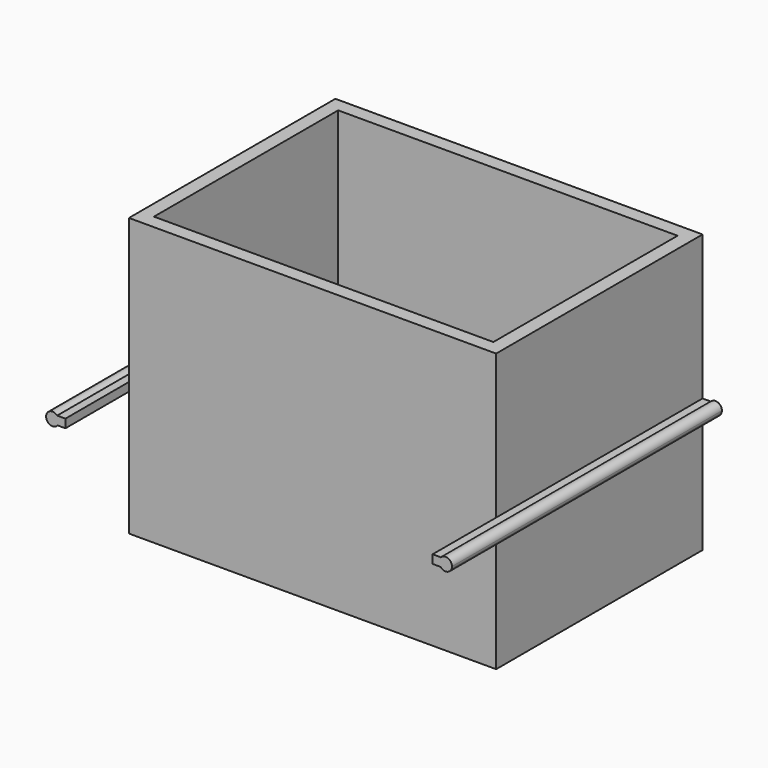
from build123d import *

# Parameters (mm, degrees)
F0_W     = 46.99
F0_H     = 33.02
F1_DEPTH = 71.12
F3_DEPTH = 86.36
F5_W     = 86.868
F5_H     = 58.928
F6_DEPTH = 65.532


with BuildPart() as f1:
    # F0 (on Top) → F1 (new body)
    with BuildSketch(Plane.XY):
        with Locations((-23.495, -16.51)):
            Rectangle(F0_W, F0_H)
        Polygon((0, 0), (0, -33.02), (46.99, -33.02), (46.99, 33.02), (-46.99, 33.02), (-46.99, 0), align=None)
        Polygon((0, 0), (0, -33.02), (46.99, -33.02), (46.99, 33.02), (-46.99, 33.02), (-46.99, 0), align=None)
    extrude(amount=F1_DEPTH)

    # F2 (on face) → F3 (join)
    with BuildSketch(Plane(origin=(0, 33.02, 0), x_dir=(-1, 0, 0), z_dir=(0, 1, 0))):
        with BuildLine():
            ThreePointArc((49.0112789095, 31.9781005383), (48.6423795188, 33.0874779076), (49.1006532674, 34.1630196685))
            Line((49.1006532674, 34.1630196685), (46.99, 34.1630196685))
            Line((46.99, 34.1630196685), (46.99, 31.9781005383))
            Line((46.99, 31.9781005383), (49.0112789095, 31.9781005383))
        make_face()
        with BuildLine():
            Line((49.1006532674, 31.9781005383), (49.1006532674, 34.1630196685))
            ThreePointArc((49.1006532674, 34.1630196685), (48.6423795188, 33.0874779076), (49.0112789095, 31.9781005383))
            Line((49.0112789095, 31.9781005383), (49.1006532674, 31.9781005383))
        make_face()
        with BuildLine():
            ThreePointArc((49.0112789095, 31.9781005383), (50.8448700026, 31.464321447), (51.943, 33.02))
            ThreePointArc((51.943, 33.02), (50.9079900748, 34.5517823696), (49.1006532674, 34.1630196685))
            Line((49.1006532674, 34.1630196685), (49.1006532674, 31.9781005383))
            Line((49.1006532674, 31.9781005383), (49.0112789095, 31.9781005383))
        make_face()
    extrude(amount=-F3_DEPTH)

    # F4: F1 across plane


with BuildPart() as f1_1:
    add(f1.part)
    add(f1.part.mirror(Plane.YZ))

    # F5 (on face) → F6 (cut)
    with BuildSketch(Plane.XY.offset(71.12)):
        Rectangle(F5_W, F5_H)
    extrude(amount=-F6_DEPTH, mode=Mode.SUBTRACT)


solid = f1_1.part
